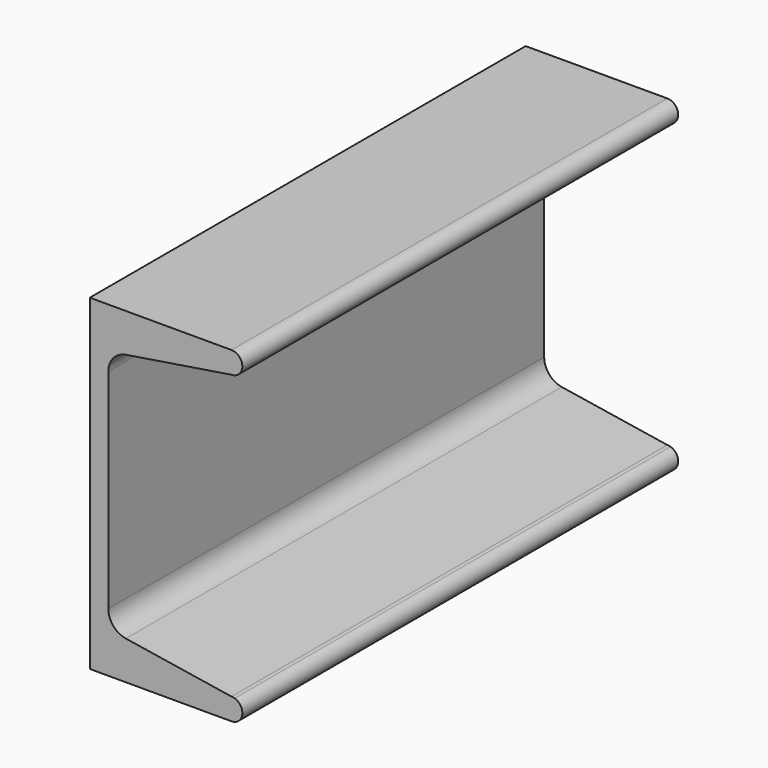
from build123d import *

# Parameters (mm, degrees)
F1_DEPTH = 127


with BuildPart() as f1:
    # F0 (on Front) → F1 (new body)
    with BuildSketch(Plane.XZ):
        with BuildLine():
            Line((33.02, 5.081005), (33.805058, 4.956663))
            ThreePointArc((33.805058, 4.956663), (33.417422, 5.049727), (33.02, 5.081005))
        make_face()
        with BuildLine():
            ThreePointArc((33.02, 71.118995), (33.417422, 71.150273), (33.805058, 71.243337))
            Line((33.805058, 71.243337), (33.02, 71.118995))
        make_face()
        with BuildLine():
            Line((0, 36.276337), (0, 0))
            Line((0, 0), (33.02, 0))
            ThreePointArc((33.02, 0), (35.529224, 2.14308), (33.805058, 4.956663))
            Line((33.805058, 4.956663), (33.02, 5.081005))
            Line((33.02, 5.081005), (8.410474, 8.978771))
            ThreePointArc((8.410474, 8.978771), (5.480366, 10.61971), (4.318, 13.770442))
            Line((4.318, 13.770442), (4.318, 36.276337))
            Line((4.318, 36.276337), (0, 36.276337))
        make_face()
        with BuildLine():
            Line((0, 76.2), (0, 36.276337))
            Line((0, 36.276337), (4.318, 36.276337))
            Line((4.318, 36.276337), (4.318, 62.429558))
            ThreePointArc((4.318, 62.429558), (5.480366, 65.58029), (8.410474, 67.221229))
            Line((8.410474, 67.221229), (33.02, 71.118995))
            Line((33.02, 71.118995), (33.805058, 71.243337))
            ThreePointArc((33.805058, 71.243337), (35.529224, 74.05692), (33.02, 76.2))
            Line((33.02, 76.2), (4.318, 76.2))
            Line((4.318, 76.2), (0, 76.2))
        make_face()
    extrude(amount=F1_DEPTH)


solid = f1.part
